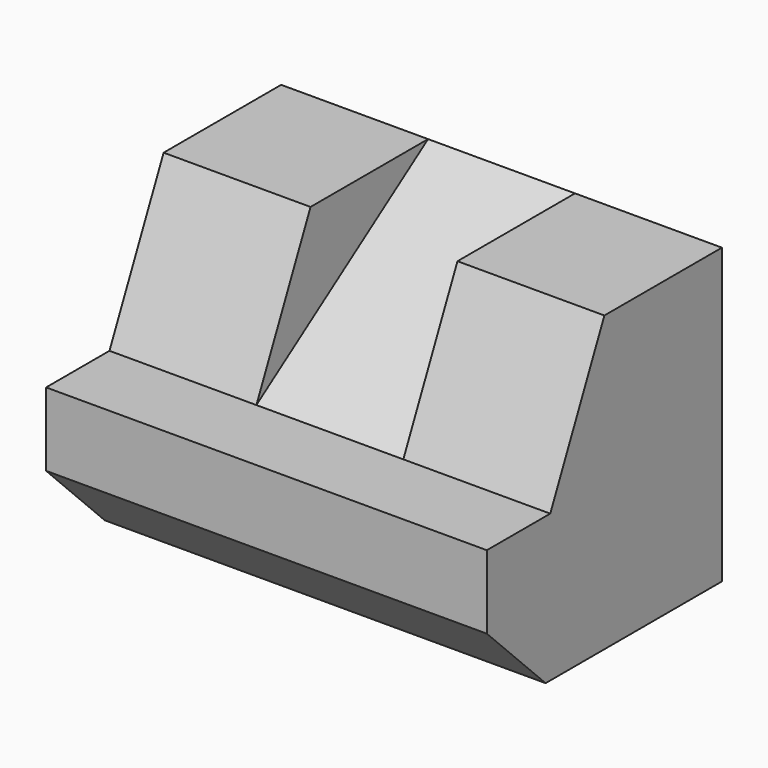
from build123d import *

# Parameters (mm, degrees)
F1_DEPTH      = 76.2
F4_DEPTH      = 12.7
F4_DEPTH_BACK = 12.7


with BuildPart() as f1:
    # F0 (on Right) → F1 (new body)
    with BuildSketch(Plane.YZ):
        Polygon((-38.1, 0), (0, 0), (0, 50.8), (-25.4, 50.8), (-37.1005810608, 25.4), (-50.8, 25.4), (-50.8, 12.7), align=None)
    extrude(amount=F1_DEPTH)

    # F3 (on mid) → F4 (cut, two sides)
    with BuildSketch(Plane(origin=(38.1, 0, 0), x_dir=(0, -1, 0), z_dir=(-1, 0, 0))) as f4_sk:
        Polygon((25.4, 50.8), (0, 50.8), (37.1005810608, 25.4), align=None)
    extrude(amount=-F4_DEPTH, mode=Mode.SUBTRACT)
    extrude(f4_sk.sketch, amount=F4_DEPTH_BACK, mode=Mode.SUBTRACT)


solid = f1.part
